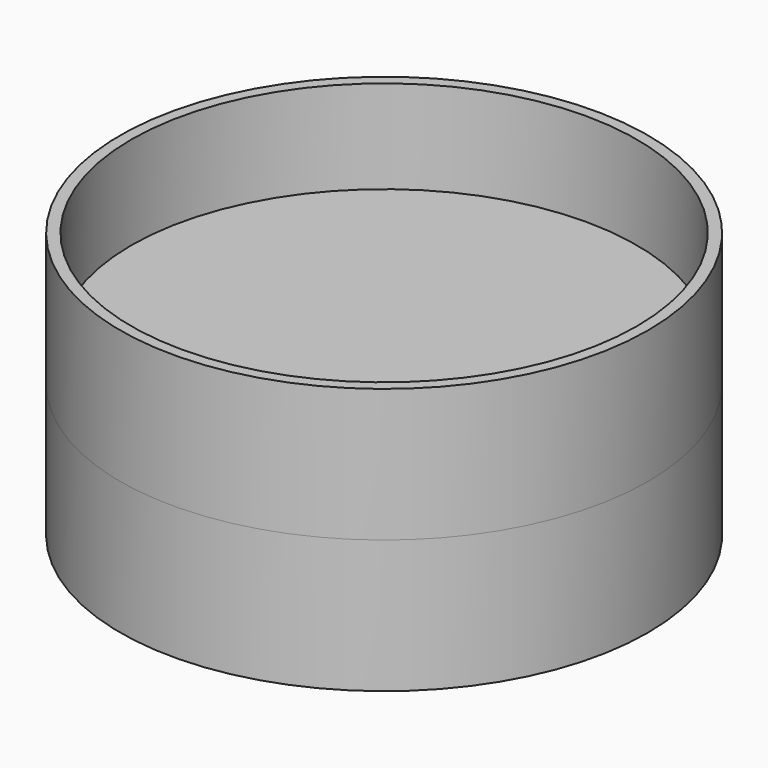
from build123d import *

# Parameters (mm, degrees)
F3_W     = 1.5875
F3_H     = 15.875
F5_R     = 31.75
F5_R_2   = 31.496
F6_DEPTH = 31.751


with BuildPart() as f2:
    # F1 (on Front) → F2 (revolve)
    with BuildSketch(Plane.XZ):
        Polygon((30.1625, 0), (30.1625, 4.7625), (0, 4.7625), (0, -15.875), (31.75, -15.875), (31.75, 0), align=None)
    revolve(axis=Axis((0, 0, -16.009867), (0, 0, -1)))


with BuildPart() as f4:
    # F3 (on Front) → F4 (revolve)
    with BuildSketch(Plane.XZ):
        with Locations((30.95625, 7.9375)):
            Rectangle(F3_W, F3_H)
    revolve(axis=Axis((0, 0, -13.350507), (0, 0, -1)))


with BuildPart() as f6_tool:
    # F5 (on face) → F6 (new body, through all)
    with BuildSketch(Plane.XY.offset(15.875)):
        Circle(F5_R)
        Circle(F5_R_2, mode=Mode.SUBTRACT)
    extrude(amount=-F6_DEPTH)


with BuildPart() as f2_1:
    add(f2.part)

    # F6: cut by f6_tool
    add(f6_tool.part, mode=Mode.SUBTRACT)


with BuildPart() as f4_1:
    add(f4.part)

    # F6: cut by f6_tool
    add(f6_tool.part, mode=Mode.SUBTRACT)


solid = Compound([f2_1.part, f4_1.part])
